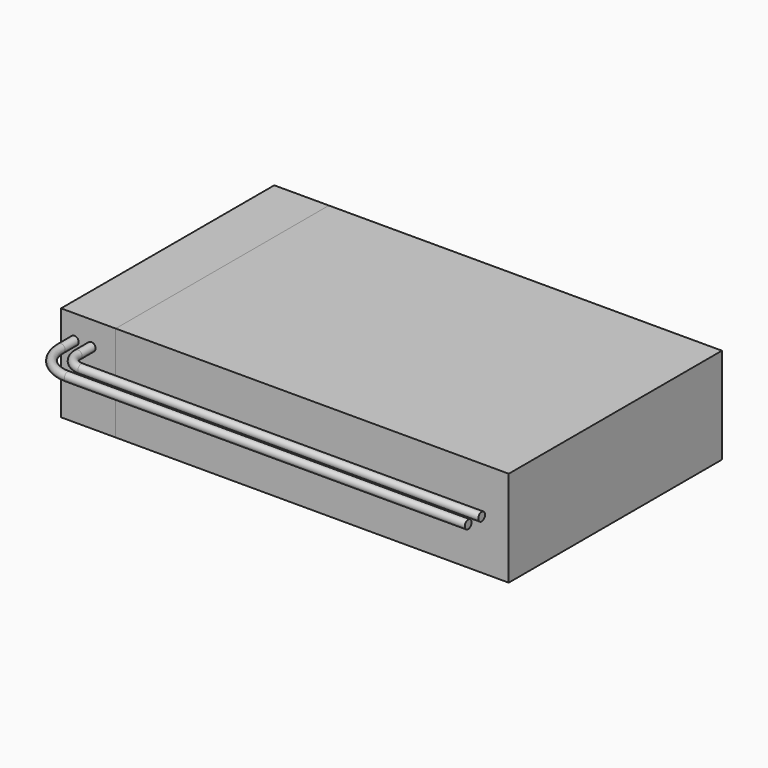
from build123d import *

# Parameters (mm, degrees)
F0_W     = 42
F0_H     = 25
F1_DEPTH = 9
F2_W     = 5.125
F2_H     = 25
F3_DEPTH = 9.001
F4_DEPTH = 9
F6_R     = 0.396875


with BuildPart() as f1:
    # F0 (on Top) → F1 (new body)
    with BuildSketch(Plane.XY):
        Rectangle(F0_W, F0_H)
    extrude(amount=F1_DEPTH)

    # F2 (on face) → F3 (cut, through all)
    with BuildSketch(Plane.XY.offset(9)):
        with Locations((-18.4375, 0)):
            Rectangle(F2_W, F2_H)
    extrude(amount=-F3_DEPTH, mode=Mode.SUBTRACT)


with BuildPart() as f4:
    # F2 (on face) → F4 (new body)
    with BuildSketch(Plane.XY.offset(9)):
        with Locations((-18.4375, 0)):
            Rectangle(F2_W, F2_H)
    extrude(amount=-F4_DEPTH)


with BuildPart() as f8:
    # F8: sweep along a path in F7
    with BuildLine(Plane.XY.offset(6.75)) as f8_path:
        Line((-18.1527560161, -12.5), (-18.1527560161, -14.0875))
        ThreePointArc((-18.1527560161, -14.0875), (-17.6877880312, -15.2100320151), (-16.5652560161, -15.675))
        Line((-16.5652560161, -15.675), (21, -15.675))
    # F6 (on face) → F8 (sweep)
    with BuildSketch(Plane.XZ.offset(12.5)):
        with Locations((-18.1527560161, 6.75)):
            Circle(F6_R)
    sweep(path=f8_path.line)


with BuildPart() as f9:
    # F9: sweep along a path in F7
    with BuildLine(Plane.XY.offset(6.75)) as f9_path:
        Line((-19.7402560161, -12.5), (-19.7402560161, -14.0875))
        ThreePointArc((-19.7402560161, -14.0875), (-18.8087535161, -16.3296983837), (-16.5652560161, -17.2580676353))
        Line((-16.5652560161, -17.2580676353), (21, -17.2580676353))
    # F6 (on face) → F9 (sweep)
    with BuildSketch(Plane.XZ.offset(12.5)):
        with Locations((-19.7402560161, 6.75)):
            Circle(F6_R)
    sweep(path=f9_path.line)


solid = Compound([f1.part, f4.part, f8.part, f9.part])
